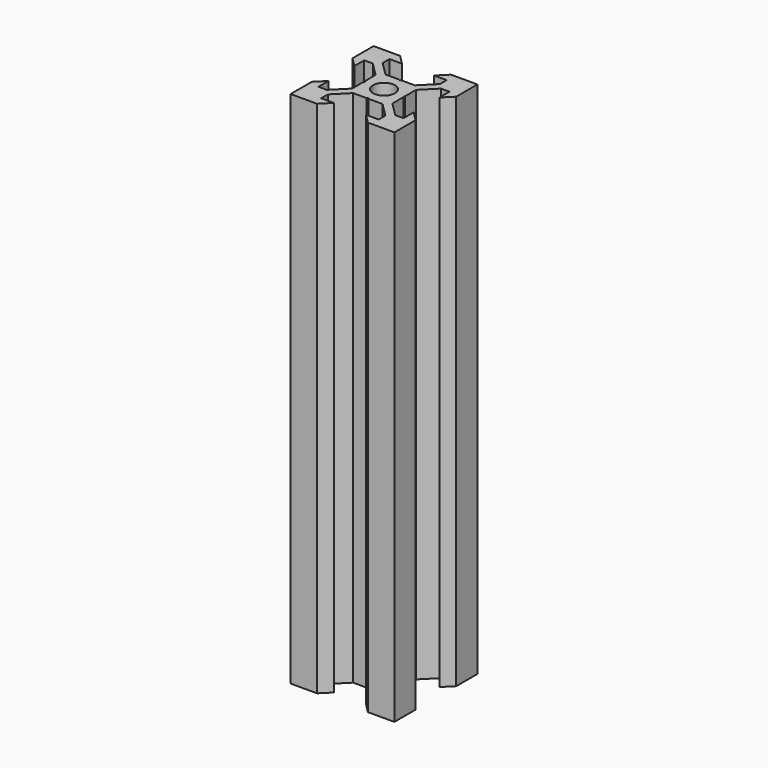
from build123d import *

# Parameters (mm, degrees)
SKETCH_R  = 2.1
PAD_DEPTH = 100


with BuildPart() as part:
    # Sketch → Pad (new body)
    with BuildSketch(Plane.XY):
        Polygon((0, -3.691567), (0.174924, -3.891567), (2.84, -3.891567), (5.535042, -6.586609), (5.535042, -8.2), (3.1, -8.2), (4.9, -10), (10, -10), (10, -4.9), (8.2, -3.1), (8.2, -5.535042), (6.586609, -5.535042), (3.891567, -2.84), (3.891567, -0.174924), (3.691567, 0), (3.891567, 0.170281), (3.891567, 2.84), (6.576242, 5.524674), (8.2, 5.524674), (8.2, 3.1), (10, 4.9), (10, 10), (4.9, 10), (3.1, 8.2), (5.524674, 8.2), (5.524674, 6.576242), (2.84, 3.891567), (0.170281, 3.891567), (0, 3.691567), (-0.219864, 3.891567), (-2.84, 3.891567), (-5.490619, 6.542187), (-5.490619, 8.2), (-3.1, 8.2), (-4.9, 10), (-10, 10), (-10, 4.9), (-8.2, 3.1), (-8.2, 5.490619), (-6.542187, 5.490619), (-3.891567, 2.84), (-3.891567, 0.219864), (-3.691567, 0), (-3.891567, -0.224285), (-3.891567, -2.84), (-6.587748, -5.53618), (-8.2, -5.53618), (-8.2, -3.1), (-10, -4.9), (-10, -10), (-4.9, -10), (-3.1, -8.2), (-5.53618, -8.2), (-5.53618, -6.587748), (-2.84, -3.891567), (-0.224285, -3.891567), align=None)
        Circle(SKETCH_R, mode=Mode.SUBTRACT)
    extrude(amount=PAD_DEPTH)


solid = part.part
